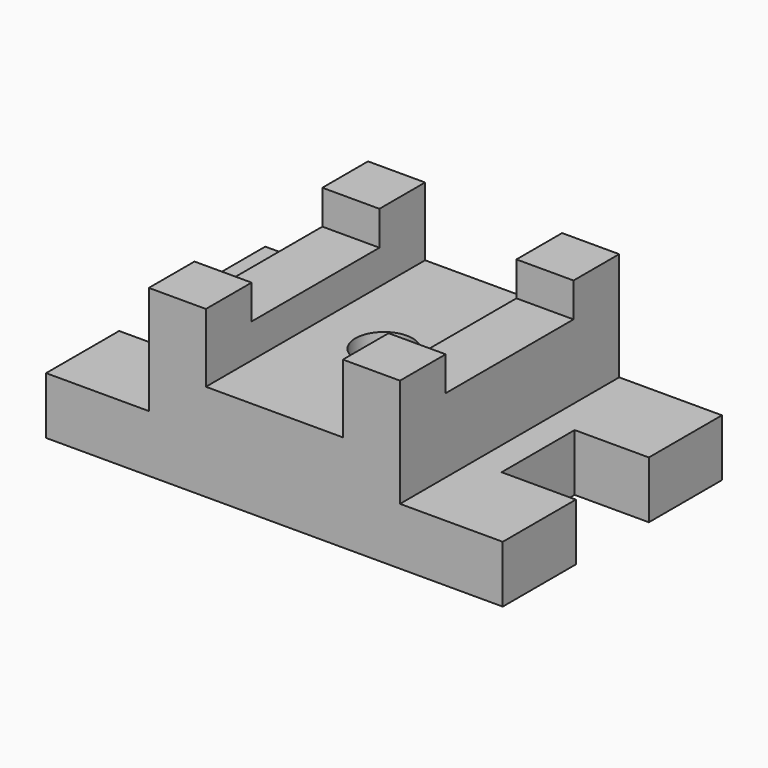
from build123d import *

# Parameters (mm, degrees)
F1_DEPTH = 31.75
F0_R     = 15.875
F2_DEPTH = 53.975
F0_W     = 31.75
F0_H     = 88.9
F3_DEPTH = 73.025
F0_H_2   = 31.75
F4_DEPTH = 92.075


with BuildPart() as f1:
    # F0 (on Top) → F1 (new body)
    with BuildSketch(Plane.XY):
        Polygon((127, 10.34329), (127, 61.14329), (69.85, 61.14329), (69.85, 29.39329), (69.85, -59.50671), (69.85, -91.25671), (127, -91.25671), (127, -40.45671), (85.725, -40.45671), (85.725, 10.34329), align=None)
        Polygon((-69.85, 29.39329), (-69.85, 61.14329), (-127, 61.14329), (-127, 10.34329), (-85.725, 10.34329), (-85.725, -40.45671), (-127, -40.45671), (-127, -91.25671), (-69.85, -91.25671), (-69.85, -59.50671), align=None)
    extrude(amount=F1_DEPTH)



with BuildPart() as f2:
    # F0 (on Top) → F2 (new body)
    with BuildSketch(Plane.XY):
        Polygon((38.1, 29.39329), (38.1, 61.14329), (-38.1, 61.14329), (-38.1, 29.39329), (-38.1, -59.50671), (-38.1, -91.25671), (38.1, -91.25671), (38.1, -59.50671), align=None)
        with Locations((0, -15.05671)):
            Circle(F0_R, mode=Mode.SUBTRACT)
    extrude(amount=F2_DEPTH)


with BuildPart() as f1_1:
    add(f1.part)

    add(f2.part)  # F3 merges F2
    # F0 (on Top) → F3 (join)
    with BuildSketch(Plane.XY):
        with Locations((53.975, -15.05671)):
            Rectangle(F0_W, F0_H)
        with Locations((-53.975, -15.05671)):
            Rectangle(F0_W, F0_H)
    extrude(amount=F3_DEPTH)

    # F0 (on Top) → F4 (join)
    with BuildSketch(Plane.XY):
        with Locations((53.975, 45.26829)):
            Rectangle(F0_W, F0_H_2)
        with Locations((53.975, -75.38171)):
            Rectangle(F0_W, F0_H_2)
        with Locations((-53.975, -75.38171)):
            Rectangle(F0_W, F0_H_2)
        with Locations((-53.975, 45.26829)):
            Rectangle(F0_W, F0_H_2)
    extrude(amount=F4_DEPTH)


solid = f1_1.part
